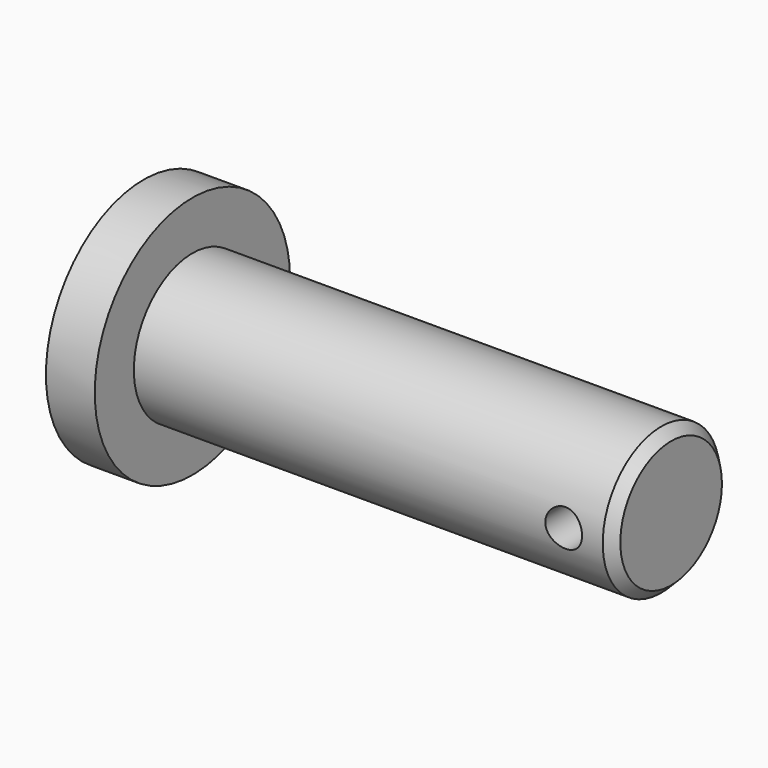
from build123d import *

# Parameters (mm, degrees)
F0_R          = 15.875
F1_DEPTH      = 6.35
F2_R          = 9.525
F3_DEPTH      = 62.23
F4_SIZE2      = 1.27
F4_SIZE       = 1.27
F5_R          = 2.3876
F6_DEPTH      = 51.308
F6_DEPTH_BACK = 25.4


with BuildPart() as f1:
    # F0 (on Right) → F1 (new body)
    with BuildSketch(Plane.YZ):
        Circle(F0_R)
    extrude(amount=F1_DEPTH)

    # F2 (on face) → F3 (join)
    with BuildSketch(Plane.YZ.offset(6.35)):
        Circle(F2_R)
    extrude(amount=F3_DEPTH)

    # F4
    f4_edges = [f1.edges().sort_by_distance(p)[0] for p in [
        (68.58, -9.525, 0),
    ]]
    chamfer(f4_edges, length=F4_SIZE, length2=F4_SIZE2)

    # F5 (on Front) → F6 (cut, two sides)
    with BuildSketch(Plane.XZ) as f6_sk:
        with Locations((62.23, 0)):
            Circle(F5_R)
    extrude(amount=F6_DEPTH, mode=Mode.SUBTRACT)
    extrude(f6_sk.sketch, amount=-F6_DEPTH_BACK, mode=Mode.SUBTRACT)


solid = f1.part
